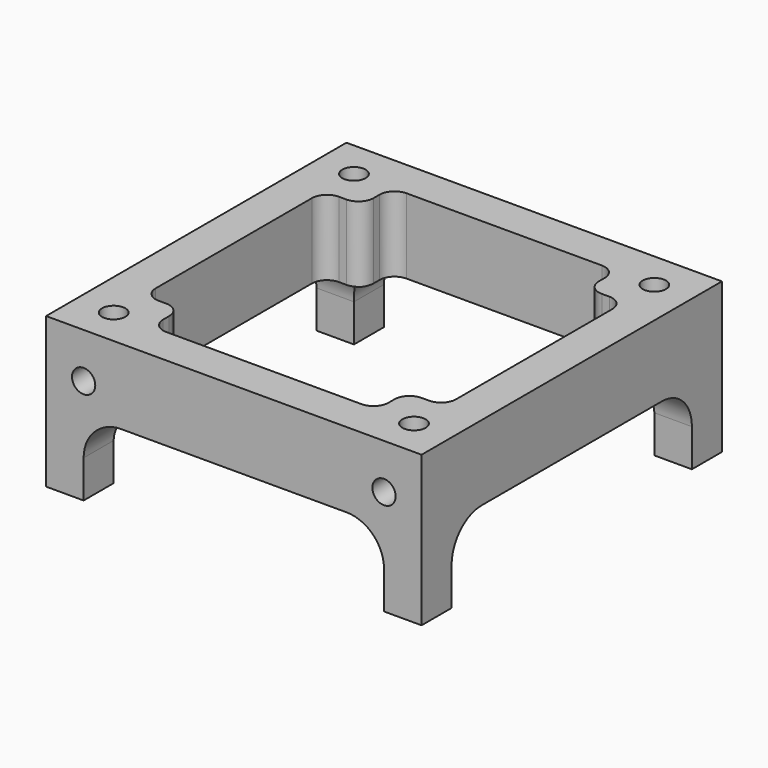
from build123d import *

# Parameters (mm, degrees)
SKETCH123_W     = 50
SKETCH123_H     = 50
PAD021_DEPTH    = 20
POCKET103_DEPTH = 20.001
POCKET104_DEPTH = 50.001
POCKET105_DEPTH = 50.001
SKETCH127_R     = 1.55
POCKET106_DEPTH = 5
SKETCH133_R     = 1.55
POCKET111_DEPTH = 3
SKETCH158_R     = 1.55
POCKET132_DEPTH = 3


with BuildPart() as part:
    # Sketch123 → Pad021 (new body)
    with BuildSketch(Plane.XY):
        Rectangle(SKETCH123_W, SKETCH123_H)
    extrude(amount=PAD021_DEPTH)

    # Sketch124 (on Face6 of Pad021) → Pocket103 (cut, through all)
    with BuildSketch(Plane.XY.offset(20)):
        with BuildLine():
            Line((-18, 15), (-17, 15))
            ThreePointArc((-17, 15), (-15.585786, 15.585786), (-15, 17))
            Line((-15, 17), (-15, 18))
            ThreePointArc((-13, 20), (-14.414214, 19.414214), (-15, 18))
            Line((-13, 20), (13, 20))
            ThreePointArc((15, 18), (14.414214, 19.414214), (13, 20))
            Line((15, 18), (15, 17))
            ThreePointArc((15, 17), (15.585786, 15.585786), (17, 15))
            Line((17, 15), (18, 15))
            ThreePointArc((20, 13), (19.414214, 14.414214), (18, 15))
            Line((20, 13), (20, -13))
            ThreePointArc((18, -15), (19.414214, -14.414214), (20, -13))
            Line((18, -15), (17, -15))
            ThreePointArc((17, -15), (15.585786, -15.585786), (15, -17))
            Line((15, -17), (15, -18))
            ThreePointArc((13, -20), (14.414214, -19.414214), (15, -18))
            Line((13, -20), (-13, -20))
            ThreePointArc((-15, -18), (-14.414214, -19.414214), (-13, -20))
            Line((-15, -18), (-15, -17))
            ThreePointArc((-15, -17), (-15.585786, -15.585786), (-17, -15))
            Line((-17, -15), (-18, -15))
            ThreePointArc((-20, -13), (-19.414214, -14.414214), (-18, -15))
            Line((-20, -13), (-20, 13))
            ThreePointArc((-18, 15), (-19.414214, 14.414214), (-20, 13))
        make_face()
    extrude(amount=-POCKET103_DEPTH, mode=Mode.SUBTRACT)

    # Sketch125 (on Face3 of Pocket103) → Pocket104 (cut, through all)
    with BuildSketch(Plane.YZ.offset(25)):
        with BuildLine():
            Line((-15, 10), (15, 10))
            ThreePointArc((20, 5), (18.535534, 8.535534), (15, 10))
            Line((20, 5), (20, 0))
            Line((20, 0), (-20, 0))
            Line((-20, 0), (-20, 5))
            ThreePointArc((-15, 10), (-18.535534, 8.535534), (-20, 5))
        make_face()
    extrude(amount=-POCKET104_DEPTH, mode=Mode.SUBTRACT)

    # Sketch126 (on Face6 of Pocket103) → Pocket105 (cut, through all)
    with BuildSketch(Plane.XZ.offset(25)):
        with BuildLine():
            Line((-15, 10), (15, 10))
            ThreePointArc((20, 5), (18.535534, 8.535534), (15, 10))
            Line((20, 5), (20, 0))
            Line((20, 0), (-20, 0))
            Line((-20, 0), (-20, 5))
            ThreePointArc((-15, 10), (-18.535534, 8.535534), (-20, 5))
        make_face()
    extrude(amount=-POCKET105_DEPTH, mode=Mode.SUBTRACT)

    # Sketch127 → Pocket106 (cut)
    with BuildSketch(Plane.XY.offset(20)):
        with Locations((-20, 20)):
            Circle(SKETCH127_R)
        with Locations((20, 20)):
            Circle(SKETCH127_R)
        with Locations((20, -20)):
            Circle(SKETCH127_R)
        with Locations((-20, -20)):
            Circle(SKETCH127_R)
    extrude(amount=-POCKET106_DEPTH, mode=Mode.SUBTRACT)

    # Sketch133 (on Face27 of Pocket106) → Pocket111 (cut)
    with BuildSketch(Plane.XZ.offset(25)):
        with Locations((-20, 14)):
            Circle(SKETCH133_R)
        with Locations((20, 14)):
            Circle(SKETCH133_R)
    extrude(amount=-POCKET111_DEPTH, mode=Mode.SUBTRACT)

    # Sketch158 (on Face11 of Pocket111) → Pocket132 (cut)
    with BuildSketch(Plane(origin=(-25, 0, 0), x_dir=(0, -1, 0), z_dir=(-1, 0, 0))):
        with Locations((-20, 14)):
            Circle(SKETCH158_R)
        with Locations((20, 14)):
            Circle(SKETCH158_R)
    extrude(amount=-POCKET132_DEPTH, mode=Mode.SUBTRACT)


with BuildPart() as part_1:
    # Body022 placement: moved
    add(part.part.moved(Location((25, 25, 0))))


solid = part_1.part
